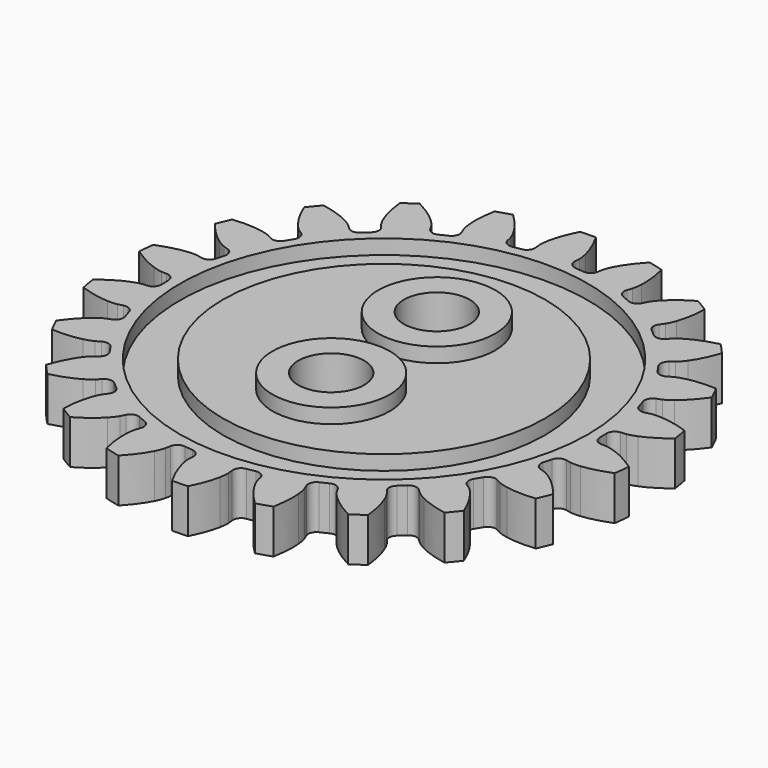
from build123d import *

# Parameters (mm, degrees)
SKETCH015_W       = 2.93428
SKETCH015_H       = 1
CYLINDER016_R     = 2.25
CYLINDER016_DEPTH = 10
CYLINDER015_R     = 2.25
CYLINDER015_DEPTH = 10
SKETCH016_W       = 2.93428
SKETCH016_H       = 1
CYLINDER014_R     = 4
CYLINDER014_DEPTH = 4
PAD014_DEPTH      = 3
CYLINDER019_R     = 4
CYLINDER019_DEPTH = 4


with BuildPart() as bearing_race:
    # Sketch015 → Revolution006 (revolve)
    with BuildSketch(Plane(origin=(0, 0, -0.5), x_dir=(1, 0, 0), z_dir=(0, -1, 0))):
        with Locations((12.444345, 1)):
            Rectangle(SKETCH015_W, SKETCH015_H)
    revolve(axis=Axis((0, 0, -0.5), (0, 0, 1)))


with BuildPart() as axle_cutout:
    # Cylinder016 → Cylinder016 (new body)
    with BuildSketch(Plane(origin=(0, 4.5, 0), x_dir=(1, 0, 0), z_dir=(0, 0, 1))):
        Circle(CYLINDER016_R)
    extrude(amount=CYLINDER016_DEPTH)


with BuildPart() as cylinder015:
    # Cylinder015 → Cylinder015 (new body)
    with BuildSketch(Plane(origin=(0, -4.5, 0), x_dir=(1, 0, 0), z_dir=(0, 0, 1))):
        Circle(CYLINDER015_R)
    extrude(amount=CYLINDER015_DEPTH)


with BuildPart() as cutouts:
    # Sketch016 → Revolution007 (revolve)
    with BuildSketch(Plane(origin=(0, 0, 3.5), x_dir=(1, 0, 0), z_dir=(0, -1, 0))):
        with Locations((12.444345, -1)):
            Rectangle(SKETCH016_W, SKETCH016_H)
    revolve(axis=Axis((0, 0, 3.5), (0, 0, 1)))

    # Fusion012: union bearing race, axle cutout, Cylinder015
    add(bearing_race.part)
    add(axle_cutout.part)
    add(cylinder015.part)


with BuildPart() as spacer:
    # Cylinder014 → Cylinder014 (new body)
    with BuildSketch(Plane(origin=(0, -4.5, 0), x_dir=(1, 0, 0), z_dir=(0, 0, 1))):
        Circle(CYLINDER014_R)
    extrude(amount=CYLINDER014_DEPTH)


with BuildPart() as gear_profile:
    # InvoluteGear012 → Pad014 (new body)
    with BuildSketch(Plane(origin=(0, 0, 0), x_dir=(0.920505, -0.390731, 0), z_dir=(0, 0, 1))):
        with BuildLine():
            Line((15.120592, -1.308221), (15.474951, -1.337752))
            add(Edge.make_bspline(
                [(15.474951, -1.337752), (15.548151, -1.339711), (15.768567, -1.336936), (16.136041, -1.258229)],
                knots=[0, 0, 0, 0, 1, 1, 1, 1], degree=3))
            add(Edge.make_bspline(
                [(16.136041, -1.258229), (16.575905, -1.162683), (17.209857, -0.959226), (17.993829, -0.528847)],
                knots=[0, 0, 0, 0, 1, 1, 1, 1], degree=3))
            ThreePointArc((17.993829, -0.528847), (18.001599, 0), (17.993829, 0.528847))
            add(Edge.make_bspline(
                [(17.993829, 0.528847), (17.209857, 0.959226), (16.575905, 1.162683), (16.136041, 1.258229)],
                knots=[0, 0, 0, 0, 1, 1, 1, 1], degree=3))
            add(Edge.make_bspline(
                [(16.136041, 1.258229), (15.768567, 1.336936), (15.548151, 1.339711), (15.474951, 1.337752)],
                knots=[0, 0, 0, 0, 1, 1, 1, 1], degree=3))
            Line((15.474951, 1.337752), (15.120592, 1.308221))
            ThreePointArc((15.120592, 1.308221), (14.718305, 1.431328), (14.513926, 1.79905))
            ThreePointArc((14.513926, 1.79905), (14.476139, 2.081355), (14.432861, 2.36287))
            ThreePointArc((14.432861, 2.36287), (14.525362, 2.773277), (14.87667, 3.004735))
            Line((14.87667, 3.004735), (15.224995, 3.076233))
            add(Edge.make_bspline(
                [(15.224995, 3.076233), (15.295781, 3.094977), (15.506488, 3.159738), (15.836902, 3.338786)],
                knots=[0, 0, 0, 0, 1, 1, 1, 1], degree=3))
            add(Edge.make_bspline(
                [(15.836902, 3.338786), (16.23203, 3.554386), (16.782983, 3.928207), (17.413945, 4.562023)],
                knots=[0, 0, 0, 0, 1, 1, 1, 1], degree=3))
            ThreePointArc((17.413945, 4.562023), (17.272408, 5.071637), (17.115959, 5.576872))
            add(Edge.make_bspline(
                [(17.115959, 5.576872), (16.242492, 5.768948), (15.576899, 5.785558), (15.127934, 5.75331)],
                knots=[0, 0, 0, 0, 1, 1, 1, 1], degree=3))
            add(Edge.make_bspline(
                [(15.127934, 5.75331), (14.753171, 5.7253), (14.540901, 5.665863), (14.471218, 5.643362)],
                knots=[0, 0, 0, 0, 1, 1, 1, 1], degree=3))
            Line((14.471218, 5.643362), (14.139534, 5.515192))
            ThreePointArc((14.139534, 5.515192), (13.718858, 5.519974), (13.419159, 5.815221))
            ThreePointArc((13.419159, 5.815221), (13.303368, 6.075445), (13.182531, 6.333364))
            ThreePointArc((13.182531, 6.333364), (13.15566, 6.753207), (13.427529, 7.074264))
            Line((13.427529, 7.074264), (13.741601, 7.241001))
            add(Edge.make_bspline(
                [(13.741601, 7.241001), (13.804239, 7.278928), (13.988165, 7.400429), (14.254751, 7.665313)],
                knots=[0, 0, 0, 0, 1, 1, 1, 1], degree=3))
            add(Edge.make_bspline(
                [(14.254751, 7.665313), (14.573132, 7.9835), (14.99645, 8.497399), (15.423288, 9.283304)],
                knots=[0, 0, 0, 0, 1, 1, 1, 1], degree=3))
            ThreePointArc((15.423288, 9.283304), (15.143909, 9.732399), (14.851456, 10.173092))
            add(Edge.make_bspline(
                [(14.851456, 10.173092), (13.959257, 10.111304), (13.315945, 9.939722), (12.894252, 9.782292)],
                knots=[0, 0, 0, 0, 1, 1, 1, 1], degree=3))
            add(Edge.make_bspline(
                [(12.894252, 9.782292), (12.54256, 9.649834), (12.355634, 9.533001), (12.295113, 9.491779)],
                knots=[0, 0, 0, 0, 1, 1, 1, 1], degree=3))
            Line((12.295113, 9.491779), (12.012974, 9.275354))
            ThreePointArc((12.012974, 9.275354), (11.607992, 9.161426), (11.237252, 9.360278))
            ThreePointArc((11.237252, 9.360278), (11.052838, 9.577338), (10.864231, 9.790766))
            ThreePointArc((10.864231, 9.790766), (10.720165, 10.186032), (10.890569, 10.570679))
            Line((10.890569, 10.570679), (11.144943, 10.819146))
            add(Edge.make_bspline(
                [(11.144943, 10.819146), (11.194359, 10.873184), (11.336605, 11.041581), (11.517765, 11.370841)],
                knots=[0, 0, 0, 0, 1, 1, 1, 1], degree=3))
            add(Edge.make_bspline(
                [(11.517765, 11.370841), (11.733606, 11.765838), (11.994995, 12.378183), (12.183127, 13.252507)],
                knots=[0, 0, 0, 0, 1, 1, 1, 1], degree=3))
            ThreePointArc((12.183127, 13.252507), (11.78854, 13.604701), (11.383776, 13.945149))
            add(Edge.make_bspline(
                [(11.383776, 13.945149), (10.545125, 13.634502), (9.976212, 13.288629), (9.615954, 13.018771)],
                knots=[0, 0, 0, 0, 1, 1, 1, 1], degree=3))
            add(Edge.make_bspline(
                [(9.615954, 13.018771), (9.315826, 12.792595), (9.169387, 12.627832), (9.122932, 12.571229)],
                knots=[0, 0, 0, 0, 1, 1, 1, 1], degree=3))
            Line((9.122932, 12.571229), (8.913195, 12.284083))
            ThreePointArc((8.913195, 12.284083), (8.556715, 12.060673), (8.144969, 12.147021))
            ThreePointArc((8.144969, 12.147021), (7.906872, 12.303333), (7.665776, 12.454979))
            ThreePointArc((7.665776, 12.454979), (7.416186, 12.793646), (7.47132, 13.21072))
            Line((7.47132, 13.21072), (7.645389, 13.520788))
            add(Edge.make_bspline(
                [(7.645389, 13.520788), (7.677579, 13.586559), (7.76662, 13.78821), (7.847679, 14.155172)],
                knots=[0, 0, 0, 0, 1, 1, 1, 1], degree=3))
            add(Edge.make_bspline(
                [(7.847679, 14.155172), (7.943493, 14.594978), (8.021776, 15.25616), (7.955962, 16.148071)],
                knots=[0, 0, 0, 0, 1, 1, 1, 1], degree=3))
            ThreePointArc((7.955962, 16.148071), (7.478135, 16.374831), (6.993851, 16.587453))
            add(Edge.make_bspline(
                [(6.993851, 16.587453), (6.276691, 16.053114), (5.828266, 15.560969), (5.558629, 15.200546)],
                knots=[0, 0, 0, 0, 1, 1, 1, 1], degree=3))
            add(Edge.make_bspline(
                [(5.558629, 15.200546), (5.334379, 14.898977), (5.240291, 14.699631), (5.211664, 14.632233)],
                knots=[0, 0, 0, 0, 1, 1, 1, 1], degree=3))
            Line((5.211664, 14.632233), (5.091322, 14.297629))
            ThreePointArc((5.091322, 14.297629), (4.812223, 13.982836), (4.392829, 13.949684))
            ThreePointArc((4.392829, 13.949684), (4.120339, 14.032585), (3.846285, 14.110164))
            ThreePointArc((3.846285, 14.110164), (3.511392, 14.364794), (3.446789, 14.780507))
            Line((3.446789, 14.780507), (3.526451, 15.127056))
            add(Edge.make_bspline(
                [(3.526451, 15.127056), (3.538807, 15.199232), (3.567429, 15.4178), (3.54182, 15.792735)],
                knots=[0, 0, 0, 0, 1, 1, 1, 1], degree=3))
            add(Edge.make_bspline(
                [(3.54182, 15.792735), (3.509846, 16.241719), (3.398681, 16.898174), (3.084252, 17.735415)],
                knots=[0, 0, 0, 0, 1, 1, 1, 1], degree=3))
            ThreePointArc((3.084252, 17.735415), (2.561895, 17.818369), (2.037325, 17.88594))
            add(Edge.make_bspline(
                [(2.037325, 17.88594), (1.499756, 17.171198), (1.208149, 16.572653), (1.050976, 16.150864)],
                knots=[0, 0, 0, 0, 1, 1, 1, 1], degree=3))
            add(Edge.make_bspline(
                [(1.050976, 16.150864), (0.920773, 15.798332), (0.886658, 15.580553), (0.878179, 15.50782)],
                knots=[0, 0, 0, 0, 1, 1, 1, 1], degree=3))
            Line((0.878179, 15.50782), (0.85698, 15.152866))
            ThreePointArc((0.85698, 15.152866), (0.677874, 14.772193), (0.284809, 14.622227))
            ThreePointArc((0.284809, 14.622227), (0, 14.625), (-0.284809, 14.622227))
            ThreePointArc((-0.284809, 14.622227), (-0.677874, 14.772193), (-0.85698, 15.152866))
            Line((-0.85698, 15.152866), (-0.878179, 15.50782))
            add(Edge.make_bspline(
                [(-0.878179, 15.50782), (-0.886658, 15.580553), (-0.920773, 15.798332), (-1.050976, 16.150864)],
                knots=[0, 0, 0, 0, 1, 1, 1, 1], degree=3))
            add(Edge.make_bspline(
                [(-1.050976, 16.150864), (-1.208149, 16.572653), (-1.499756, 17.171198), (-2.037325, 17.88594)],
                knots=[0, 0, 0, 0, 1, 1, 1, 1], degree=3))
            ThreePointArc((-2.037325, 17.88594), (-2.561895, 17.818369), (-3.084252, 17.735415))
            add(Edge.make_bspline(
                [(-3.084252, 17.735415), (-3.398681, 16.898174), (-3.509846, 16.241719), (-3.54182, 15.792735)],
                knots=[0, 0, 0, 0, 1, 1, 1, 1], degree=3))
            add(Edge.make_bspline(
                [(-3.54182, 15.792735), (-3.567429, 15.4178), (-3.538807, 15.199232), (-3.526451, 15.127056)],
                knots=[0, 0, 0, 0, 1, 1, 1, 1], degree=3))
            Line((-3.526451, 15.127056), (-3.446789, 14.780507))
            ThreePointArc((-3.446789, 14.780507), (-3.511392, 14.364794), (-3.846285, 14.110164))
            ThreePointArc((-3.846285, 14.110164), (-4.120339, 14.032585), (-4.392829, 13.949684))
            ThreePointArc((-4.392829, 13.949684), (-4.812223, 13.982836), (-5.091322, 14.297629))
            Line((-5.091322, 14.297629), (-5.211664, 14.632233))
            add(Edge.make_bspline(
                [(-5.211664, 14.632233), (-5.240291, 14.699631), (-5.334379, 14.898977), (-5.558629, 15.200546)],
                knots=[0, 0, 0, 0, 1, 1, 1, 1], degree=3))
            add(Edge.make_bspline(
                [(-5.558629, 15.200546), (-5.828266, 15.560969), (-6.276691, 16.053114), (-6.993851, 16.587453)],
                knots=[0, 0, 0, 0, 1, 1, 1, 1], degree=3))
            ThreePointArc((-6.993851, 16.587453), (-7.478135, 16.374831), (-7.955962, 16.148071))
            add(Edge.make_bspline(
                [(-7.955962, 16.148071), (-8.021776, 15.25616), (-7.943493, 14.594978), (-7.847679, 14.155172)],
                knots=[0, 0, 0, 0, 1, 1, 1, 1], degree=3))
            add(Edge.make_bspline(
                [(-7.847679, 14.155172), (-7.76662, 13.78821), (-7.677579, 13.586559), (-7.645389, 13.520788)],
                knots=[0, 0, 0, 0, 1, 1, 1, 1], degree=3))
            Line((-7.645389, 13.520788), (-7.47132, 13.21072))
            ThreePointArc((-7.47132, 13.21072), (-7.416186, 12.793646), (-7.665776, 12.454979))
            ThreePointArc((-7.665776, 12.454979), (-7.906872, 12.303333), (-8.144969, 12.147021))
            ThreePointArc((-8.144969, 12.147021), (-8.556715, 12.060673), (-8.913195, 12.284083))
            Line((-8.913195, 12.284083), (-9.122932, 12.571229))
            add(Edge.make_bspline(
                [(-9.122932, 12.571229), (-9.169387, 12.627832), (-9.315826, 12.792595), (-9.615954, 13.018771)],
                knots=[0, 0, 0, 0, 1, 1, 1, 1], degree=3))
            add(Edge.make_bspline(
                [(-9.615954, 13.018771), (-9.976212, 13.288629), (-10.545125, 13.634502), (-11.383776, 13.945149)],
                knots=[0, 0, 0, 0, 1, 1, 1, 1], degree=3))
            ThreePointArc((-11.383776, 13.945149), (-11.78854, 13.604701), (-12.183127, 13.252507))
            add(Edge.make_bspline(
                [(-12.183127, 13.252507), (-11.994995, 12.378183), (-11.733606, 11.765838), (-11.517765, 11.370841)],
                knots=[0, 0, 0, 0, 1, 1, 1, 1], degree=3))
            add(Edge.make_bspline(
                [(-11.517765, 11.370841), (-11.336605, 11.041581), (-11.194359, 10.873184), (-11.144943, 10.819146)],
                knots=[0, 0, 0, 0, 1, 1, 1, 1], degree=3))
            Line((-11.144943, 10.819146), (-10.890569, 10.570679))
            ThreePointArc((-10.890569, 10.570679), (-10.720165, 10.186032), (-10.864231, 9.790766))
            ThreePointArc((-10.864231, 9.790766), (-11.052838, 9.577338), (-11.237252, 9.360278))
            ThreePointArc((-11.237252, 9.360278), (-11.607992, 9.161426), (-12.012974, 9.275354))
            Line((-12.012974, 9.275354), (-12.295113, 9.491779))
            add(Edge.make_bspline(
                [(-12.295113, 9.491779), (-12.355634, 9.533001), (-12.54256, 9.649834), (-12.894252, 9.782292)],
                knots=[0, 0, 0, 0, 1, 1, 1, 1], degree=3))
            add(Edge.make_bspline(
                [(-12.894252, 9.782292), (-13.315945, 9.939722), (-13.959257, 10.111304), (-14.851456, 10.173092)],
                knots=[0, 0, 0, 0, 1, 1, 1, 1], degree=3))
            ThreePointArc((-14.851456, 10.173092), (-15.143909, 9.732399), (-15.423288, 9.283304))
            add(Edge.make_bspline(
                [(-15.423288, 9.283304), (-14.99645, 8.497399), (-14.573132, 7.9835), (-14.254751, 7.665313)],
                knots=[0, 0, 0, 0, 1, 1, 1, 1], degree=3))
            add(Edge.make_bspline(
                [(-14.254751, 7.665313), (-13.988165, 7.400429), (-13.804239, 7.278928), (-13.741601, 7.241001)],
                knots=[0, 0, 0, 0, 1, 1, 1, 1], degree=3))
            Line((-13.741601, 7.241001), (-13.427529, 7.074264))
            ThreePointArc((-13.427529, 7.074264), (-13.15566, 6.753207), (-13.182531, 6.333364))
            ThreePointArc((-13.182531, 6.333364), (-13.303368, 6.075445), (-13.419159, 5.815221))
            ThreePointArc((-13.419159, 5.815221), (-13.718858, 5.519974), (-14.139534, 5.515192))
            Line((-14.139534, 5.515192), (-14.471218, 5.643362))
            add(Edge.make_bspline(
                [(-14.471218, 5.643362), (-14.540901, 5.665863), (-14.753171, 5.7253), (-15.127934, 5.75331)],
                knots=[0, 0, 0, 0, 1, 1, 1, 1], degree=3))
            add(Edge.make_bspline(
                [(-15.127934, 5.75331), (-15.576899, 5.785558), (-16.242492, 5.768948), (-17.115959, 5.576872)],
                knots=[0, 0, 0, 0, 1, 1, 1, 1], degree=3))
            ThreePointArc((-17.115959, 5.576872), (-17.272408, 5.071637), (-17.413945, 4.562023))
            add(Edge.make_bspline(
                [(-17.413945, 4.562023), (-16.782983, 3.928207), (-16.23203, 3.554386), (-15.836902, 3.338786)],
                knots=[0, 0, 0, 0, 1, 1, 1, 1], degree=3))
            add(Edge.make_bspline(
                [(-15.836902, 3.338786), (-15.506488, 3.159738), (-15.295781, 3.094977), (-15.224995, 3.076233)],
                knots=[0, 0, 0, 0, 1, 1, 1, 1], degree=3))
            Line((-15.224995, 3.076233), (-14.87667, 3.004735))
            ThreePointArc((-14.87667, 3.004735), (-14.525362, 2.773277), (-14.432861, 2.36287))
            ThreePointArc((-14.432861, 2.36287), (-14.476139, 2.081355), (-14.513926, 1.79905))
            ThreePointArc((-14.513926, 1.79905), (-14.718305, 1.431328), (-15.120592, 1.308221))
            Line((-15.120592, 1.308221), (-15.474951, 1.337752))
            add(Edge.make_bspline(
                [(-15.474951, 1.337752), (-15.548151, 1.339711), (-15.768567, 1.336936), (-16.136041, 1.258229)],
                knots=[0, 0, 0, 0, 1, 1, 1, 1], degree=3))
            add(Edge.make_bspline(
                [(-16.136041, 1.258229), (-16.575905, 1.162683), (-17.209857, 0.959226), (-17.993829, 0.528847)],
                knots=[0, 0, 0, 0, 1, 1, 1, 1], degree=3))
            ThreePointArc((-17.993829, 0.528847), (-18.001599, 0), (-17.993829, -0.528847))
            add(Edge.make_bspline(
                [(-17.993829, -0.528847), (-17.209857, -0.959226), (-16.575905, -1.162683), (-16.136041, -1.258229)],
                knots=[0, 0, 0, 0, 1, 1, 1, 1], degree=3))
            add(Edge.make_bspline(
                [(-16.136041, -1.258229), (-15.768567, -1.336936), (-15.548151, -1.339711), (-15.474951, -1.337752)],
                knots=[0, 0, 0, 0, 1, 1, 1, 1], degree=3))
            Line((-15.474951, -1.337752), (-15.120592, -1.308221))
            ThreePointArc((-15.120592, -1.308221), (-14.718305, -1.431328), (-14.513926, -1.79905))
            ThreePointArc((-14.513926, -1.79905), (-14.476139, -2.081355), (-14.432861, -2.36287))
            ThreePointArc((-14.432861, -2.36287), (-14.525362, -2.773277), (-14.87667, -3.004735))
            Line((-14.87667, -3.004735), (-15.224995, -3.076233))
            add(Edge.make_bspline(
                [(-15.224995, -3.076233), (-15.295781, -3.094977), (-15.506488, -3.159738), (-15.836902, -3.338786)],
                knots=[0, 0, 0, 0, 1, 1, 1, 1], degree=3))
            add(Edge.make_bspline(
                [(-15.836902, -3.338786), (-16.23203, -3.554386), (-16.782983, -3.928207), (-17.413945, -4.562023)],
                knots=[0, 0, 0, 0, 1, 1, 1, 1], degree=3))
            ThreePointArc((-17.413945, -4.562023), (-17.272408, -5.071637), (-17.115959, -5.576872))
            add(Edge.make_bspline(
                [(-17.115959, -5.576872), (-16.242492, -5.768948), (-15.576899, -5.785558), (-15.127934, -5.75331)],
                knots=[0, 0, 0, 0, 1, 1, 1, 1], degree=3))
            add(Edge.make_bspline(
                [(-15.127934, -5.75331), (-14.753171, -5.7253), (-14.540901, -5.665863), (-14.471218, -5.643362)],
                knots=[0, 0, 0, 0, 1, 1, 1, 1], degree=3))
            Line((-14.471218, -5.643362), (-14.139534, -5.515192))
            ThreePointArc((-14.139534, -5.515192), (-13.718858, -5.519974), (-13.419159, -5.815221))
            ThreePointArc((-13.419159, -5.815221), (-13.303368, -6.075445), (-13.182531, -6.333364))
            ThreePointArc((-13.182531, -6.333364), (-13.15566, -6.753207), (-13.427529, -7.074264))
            Line((-13.427529, -7.074264), (-13.741601, -7.241001))
            add(Edge.make_bspline(
                [(-13.741601, -7.241001), (-13.804239, -7.278928), (-13.988165, -7.400429), (-14.254751, -7.665313)],
                knots=[0, 0, 0, 0, 1, 1, 1, 1], degree=3))
            add(Edge.make_bspline(
                [(-14.254751, -7.665313), (-14.573132, -7.9835), (-14.99645, -8.497399), (-15.423288, -9.283304)],
                knots=[0, 0, 0, 0, 1, 1, 1, 1], degree=3))
            ThreePointArc((-15.423288, -9.283304), (-15.143909, -9.732399), (-14.851456, -10.173092))
            add(Edge.make_bspline(
                [(-14.851456, -10.173092), (-13.959257, -10.111304), (-13.315945, -9.939722), (-12.894252, -9.782292)],
                knots=[0, 0, 0, 0, 1, 1, 1, 1], degree=3))
            add(Edge.make_bspline(
                [(-12.894252, -9.782292), (-12.54256, -9.649834), (-12.355634, -9.533001), (-12.295113, -9.491779)],
                knots=[0, 0, 0, 0, 1, 1, 1, 1], degree=3))
            Line((-12.295113, -9.491779), (-12.012974, -9.275354))
            ThreePointArc((-12.012974, -9.275354), (-11.607992, -9.161426), (-11.237252, -9.360278))
            ThreePointArc((-11.237252, -9.360278), (-11.052838, -9.577338), (-10.864231, -9.790766))
            ThreePointArc((-10.864231, -9.790766), (-10.720165, -10.186032), (-10.890569, -10.570679))
            Line((-10.890569, -10.570679), (-11.144943, -10.819146))
            add(Edge.make_bspline(
                [(-11.144943, -10.819146), (-11.194359, -10.873184), (-11.336605, -11.041581), (-11.517765, -11.370841)],
                knots=[0, 0, 0, 0, 1, 1, 1, 1], degree=3))
            add(Edge.make_bspline(
                [(-11.517765, -11.370841), (-11.733606, -11.765838), (-11.994995, -12.378183), (-12.183127, -13.252507)],
                knots=[0, 0, 0, 0, 1, 1, 1, 1], degree=3))
            ThreePointArc((-12.183127, -13.252507), (-11.78854, -13.604701), (-11.383776, -13.945149))
            add(Edge.make_bspline(
                [(-11.383776, -13.945149), (-10.545125, -13.634502), (-9.976212, -13.288629), (-9.615954, -13.018771)],
                knots=[0, 0, 0, 0, 1, 1, 1, 1], degree=3))
            add(Edge.make_bspline(
                [(-9.615954, -13.018771), (-9.315826, -12.792595), (-9.169387, -12.627832), (-9.122932, -12.571229)],
                knots=[0, 0, 0, 0, 1, 1, 1, 1], degree=3))
            Line((-9.122932, -12.571229), (-8.913195, -12.284083))
            ThreePointArc((-8.913195, -12.284083), (-8.556715, -12.060673), (-8.144969, -12.147021))
            ThreePointArc((-8.144969, -12.147021), (-7.906872, -12.303333), (-7.665776, -12.454979))
            ThreePointArc((-7.665776, -12.454979), (-7.416186, -12.793646), (-7.47132, -13.21072))
            Line((-7.47132, -13.21072), (-7.645389, -13.520788))
            add(Edge.make_bspline(
                [(-7.645389, -13.520788), (-7.677579, -13.586559), (-7.76662, -13.78821), (-7.847679, -14.155172)],
                knots=[0, 0, 0, 0, 1, 1, 1, 1], degree=3))
            add(Edge.make_bspline(
                [(-7.847679, -14.155172), (-7.943493, -14.594978), (-8.021776, -15.25616), (-7.955962, -16.148071)],
                knots=[0, 0, 0, 0, 1, 1, 1, 1], degree=3))
            ThreePointArc((-7.955962, -16.148071), (-7.478135, -16.374831), (-6.993851, -16.587453))
            add(Edge.make_bspline(
                [(-6.993851, -16.587453), (-6.276691, -16.053114), (-5.828266, -15.560969), (-5.558629, -15.200546)],
                knots=[0, 0, 0, 0, 1, 1, 1, 1], degree=3))
            add(Edge.make_bspline(
                [(-5.558629, -15.200546), (-5.334379, -14.898977), (-5.240291, -14.699631), (-5.211664, -14.632233)],
                knots=[0, 0, 0, 0, 1, 1, 1, 1], degree=3))
            Line((-5.211664, -14.632233), (-5.091322, -14.297629))
            ThreePointArc((-5.091322, -14.297629), (-4.812223, -13.982836), (-4.392829, -13.949684))
            ThreePointArc((-4.392829, -13.949684), (-4.120339, -14.032585), (-3.846285, -14.110164))
            ThreePointArc((-3.846285, -14.110164), (-3.511392, -14.364794), (-3.446789, -14.780507))
            Line((-3.446789, -14.780507), (-3.526451, -15.127056))
            add(Edge.make_bspline(
                [(-3.526451, -15.127056), (-3.538807, -15.199232), (-3.567429, -15.4178), (-3.54182, -15.792735)],
                knots=[0, 0, 0, 0, 1, 1, 1, 1], degree=3))
            add(Edge.make_bspline(
                [(-3.54182, -15.792735), (-3.509846, -16.241719), (-3.398681, -16.898174), (-3.084252, -17.735415)],
                knots=[0, 0, 0, 0, 1, 1, 1, 1], degree=3))
            ThreePointArc((-3.084252, -17.735415), (-2.561895, -17.818369), (-2.037325, -17.88594))
            add(Edge.make_bspline(
                [(-2.037325, -17.88594), (-1.499756, -17.171198), (-1.208149, -16.572653), (-1.050976, -16.150864)],
                knots=[0, 0, 0, 0, 1, 1, 1, 1], degree=3))
            add(Edge.make_bspline(
                [(-1.050976, -16.150864), (-0.920773, -15.798332), (-0.886658, -15.580553), (-0.878179, -15.50782)],
                knots=[0, 0, 0, 0, 1, 1, 1, 1], degree=3))
            Line((-0.878179, -15.50782), (-0.85698, -15.152866))
            ThreePointArc((-0.85698, -15.152866), (-0.677874, -14.772193), (-0.284809, -14.622227))
            ThreePointArc((-0.284809, -14.622227), (0, -14.625), (0.284809, -14.622227))
            ThreePointArc((0.284809, -14.622227), (0.677874, -14.772193), (0.85698, -15.152866))
            Line((0.85698, -15.152866), (0.878179, -15.50782))
            add(Edge.make_bspline(
                [(0.878179, -15.50782), (0.886658, -15.580553), (0.920773, -15.798332), (1.050976, -16.150864)],
                knots=[0, 0, 0, 0, 1, 1, 1, 1], degree=3))
            add(Edge.make_bspline(
                [(1.050976, -16.150864), (1.208149, -16.572653), (1.499756, -17.171198), (2.037325, -17.88594)],
                knots=[0, 0, 0, 0, 1, 1, 1, 1], degree=3))
            ThreePointArc((2.037325, -17.88594), (2.561895, -17.818369), (3.084252, -17.735415))
            add(Edge.make_bspline(
                [(3.084252, -17.735415), (3.398681, -16.898174), (3.509846, -16.241719), (3.54182, -15.792735)],
                knots=[0, 0, 0, 0, 1, 1, 1, 1], degree=3))
            add(Edge.make_bspline(
                [(3.54182, -15.792735), (3.567429, -15.4178), (3.538807, -15.199232), (3.526451, -15.127056)],
                knots=[0, 0, 0, 0, 1, 1, 1, 1], degree=3))
            Line((3.526451, -15.127056), (3.446789, -14.780507))
            ThreePointArc((3.446789, -14.780507), (3.511392, -14.364794), (3.846285, -14.110164))
            ThreePointArc((3.846285, -14.110164), (4.120339, -14.032585), (4.392829, -13.949684))
            ThreePointArc((4.392829, -13.949684), (4.812223, -13.982836), (5.091322, -14.297629))
            Line((5.091322, -14.297629), (5.211664, -14.632233))
            add(Edge.make_bspline(
                [(5.211664, -14.632233), (5.240291, -14.699631), (5.334379, -14.898977), (5.558629, -15.200546)],
                knots=[0, 0, 0, 0, 1, 1, 1, 1], degree=3))
            add(Edge.make_bspline(
                [(5.558629, -15.200546), (5.828266, -15.560969), (6.276691, -16.053114), (6.993851, -16.587453)],
                knots=[0, 0, 0, 0, 1, 1, 1, 1], degree=3))
            ThreePointArc((6.993851, -16.587453), (7.478135, -16.374831), (7.955962, -16.148071))
            add(Edge.make_bspline(
                [(7.955962, -16.148071), (8.021776, -15.25616), (7.943493, -14.594978), (7.847679, -14.155172)],
                knots=[0, 0, 0, 0, 1, 1, 1, 1], degree=3))
            add(Edge.make_bspline(
                [(7.847679, -14.155172), (7.76662, -13.78821), (7.677579, -13.586559), (7.645389, -13.520788)],
                knots=[0, 0, 0, 0, 1, 1, 1, 1], degree=3))
            Line((7.645389, -13.520788), (7.47132, -13.21072))
            ThreePointArc((7.47132, -13.21072), (7.416186, -12.793646), (7.665776, -12.454979))
            ThreePointArc((7.665776, -12.454979), (7.906872, -12.303333), (8.144969, -12.147021))
            ThreePointArc((8.144969, -12.147021), (8.556715, -12.060673), (8.913195, -12.284083))
            Line((8.913195, -12.284083), (9.122932, -12.571229))
            add(Edge.make_bspline(
                [(9.122932, -12.571229), (9.169387, -12.627832), (9.315826, -12.792595), (9.615954, -13.018771)],
                knots=[0, 0, 0, 0, 1, 1, 1, 1], degree=3))
            add(Edge.make_bspline(
                [(9.615954, -13.018771), (9.976212, -13.288629), (10.545125, -13.634502), (11.383776, -13.945149)],
                knots=[0, 0, 0, 0, 1, 1, 1, 1], degree=3))
            ThreePointArc((11.383776, -13.945149), (11.78854, -13.604701), (12.183127, -13.252507))
            add(Edge.make_bspline(
                [(12.183127, -13.252507), (11.994995, -12.378183), (11.733606, -11.765838), (11.517765, -11.370841)],
                knots=[0, 0, 0, 0, 1, 1, 1, 1], degree=3))
            add(Edge.make_bspline(
                [(11.517765, -11.370841), (11.336605, -11.041581), (11.194359, -10.873184), (11.144943, -10.819146)],
                knots=[0, 0, 0, 0, 1, 1, 1, 1], degree=3))
            Line((11.144943, -10.819146), (10.890569, -10.570679))
            ThreePointArc((10.890569, -10.570679), (10.720165, -10.186032), (10.864231, -9.790766))
            ThreePointArc((10.864231, -9.790766), (11.052838, -9.577338), (11.237252, -9.360278))
            ThreePointArc((11.237252, -9.360278), (11.607992, -9.161426), (12.012974, -9.275354))
            Line((12.012974, -9.275354), (12.295113, -9.491779))
            add(Edge.make_bspline(
                [(12.295113, -9.491779), (12.355634, -9.533001), (12.54256, -9.649834), (12.894252, -9.782292)],
                knots=[0, 0, 0, 0, 1, 1, 1, 1], degree=3))
            add(Edge.make_bspline(
                [(12.894252, -9.782292), (13.315945, -9.939722), (13.959257, -10.111304), (14.851456, -10.173092)],
                knots=[0, 0, 0, 0, 1, 1, 1, 1], degree=3))
            ThreePointArc((14.851456, -10.173092), (15.143909, -9.732399), (15.423288, -9.283304))
            add(Edge.make_bspline(
                [(15.423288, -9.283304), (14.99645, -8.497399), (14.573132, -7.9835), (14.254751, -7.665313)],
                knots=[0, 0, 0, 0, 1, 1, 1, 1], degree=3))
            add(Edge.make_bspline(
                [(14.254751, -7.665313), (13.988165, -7.400429), (13.804239, -7.278928), (13.741601, -7.241001)],
                knots=[0, 0, 0, 0, 1, 1, 1, 1], degree=3))
            Line((13.741601, -7.241001), (13.427529, -7.074264))
            ThreePointArc((13.427529, -7.074264), (13.15566, -6.753207), (13.182531, -6.333364))
            ThreePointArc((13.182531, -6.333364), (13.303368, -6.075445), (13.419159, -5.815221))
            ThreePointArc((13.419159, -5.815221), (13.718858, -5.519974), (14.139534, -5.515192))
            Line((14.139534, -5.515192), (14.471218, -5.643362))
            add(Edge.make_bspline(
                [(14.471218, -5.643362), (14.540901, -5.665863), (14.753171, -5.7253), (15.127934, -5.75331)],
                knots=[0, 0, 0, 0, 1, 1, 1, 1], degree=3))
            add(Edge.make_bspline(
                [(15.127934, -5.75331), (15.576899, -5.785558), (16.242492, -5.768948), (17.115959, -5.576872)],
                knots=[0, 0, 0, 0, 1, 1, 1, 1], degree=3))
            ThreePointArc((17.115959, -5.576872), (17.272408, -5.071637), (17.413945, -4.562023))
            add(Edge.make_bspline(
                [(17.413945, -4.562023), (16.782983, -3.928207), (16.23203, -3.554386), (15.836902, -3.338786)],
                knots=[0, 0, 0, 0, 1, 1, 1, 1], degree=3))
            add(Edge.make_bspline(
                [(15.836902, -3.338786), (15.506488, -3.159738), (15.295781, -3.094977), (15.224995, -3.076233)],
                knots=[0, 0, 0, 0, 1, 1, 1, 1], degree=3))
            Line((15.224995, -3.076233), (14.87667, -3.004735))
            ThreePointArc((14.87667, -3.004735), (14.525362, -2.773277), (14.432861, -2.36287))
            ThreePointArc((14.432861, -2.36287), (14.476139, -2.081355), (14.513926, -1.79905))
            ThreePointArc((14.513926, -1.79905), (14.718305, -1.431328), (15.120592, -1.308221))
        make_face()
    extrude(amount=PAD014_DEPTH)


with BuildPart() as differential_planet_carrier:
    # Cylinder019 → Cylinder019 (new body)
    with BuildSketch(Plane(origin=(0, 4.5, 0), x_dir=(1, 0, 0), z_dir=(0, 0, 1))):
        Circle(CYLINDER019_R)
    extrude(amount=CYLINDER019_DEPTH)

    # Fusion011: union spacer, gear profile
    add(spacer.part)
    add(gear_profile.part)

    # Cut011002002: cut cutouts
    add(cutouts.part, mode=Mode.SUBTRACT)


with BuildPart() as differential_planet_carrier_1:
    # Cut011002002 placement: moved
    add(differential_planet_carrier.part.moved(Location((0, 33, 0))))


solid = differential_planet_carrier_1.part
